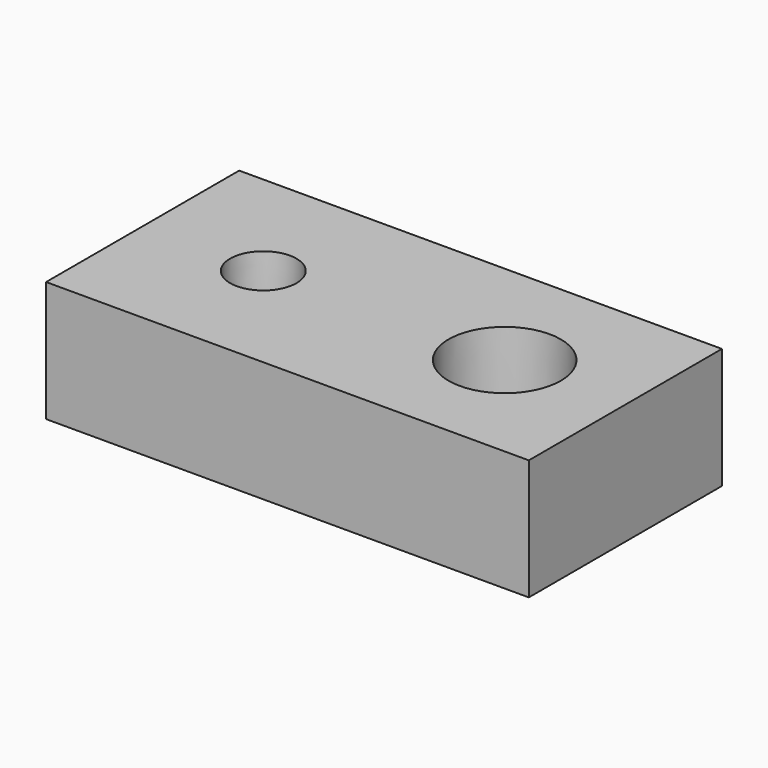
from build123d import *

# Parameters (mm, degrees)
F0_W     = 40
F0_H     = 20
F1_DEPTH = 10
F2_R     = 2.75
F5_R     = 2.6
F7_R     = 4.65
F9_R     = 4.5


with BuildPart() as f1:
    # F0 (on Top) → F1 (new body)
    with BuildSketch(Plane.XY):
        Rectangle(F0_W, F0_H)
        Rectangle(F0_W, F0_H)
    extrude(amount=F1_DEPTH)

    # F2 (on face) → F6 section 0
    with BuildSketch(Plane.XY.offset(10)):
        with Locations((-10, 0)):
            Circle(F2_R)
    # F5 (on offset) → F6 section 1
    with BuildSketch(Plane.XY.offset(6.2)):
        with Locations((-10, 0)):
            Circle(F5_R)
    loft(mode=Mode.SUBTRACT)

    # F7 (on face) → F10 section 0
    with BuildSketch(Plane.XY.offset(10)):
        with Locations((10, 0)):
            Circle(F7_R)
    # F9 (on offset) → F10 section 1
    with BuildSketch(Plane.XY.offset(2.4)):
        with Locations((10, 0)):
            Circle(F9_R)
    loft(mode=Mode.SUBTRACT)


solid = f1.part
